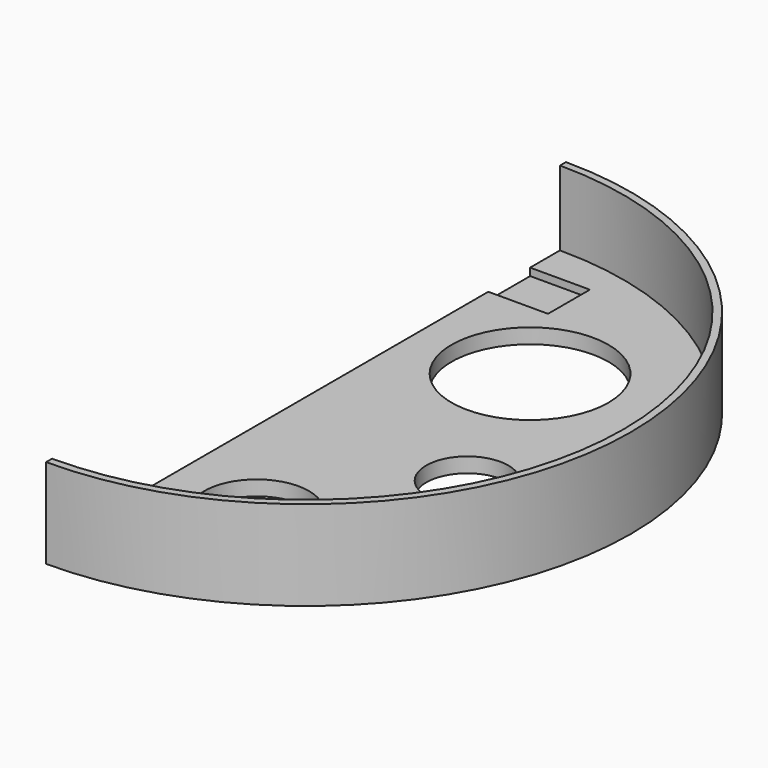
from build123d import *

# Parameters (mm, degrees)
F1_DEPTH = 12
F2_R     = 42.5
F3_DEPTH = 10
F4_R     = 10.5
F4_R_2   = 5.5
F4_R_3   = 7
F5_DEPTH = 2.001
F6_W     = 7
F6_H     = 1
F7_DEPTH = 8


with BuildPart() as f1:
    # F0 (on Top) → F1 (new body)
    with BuildSketch(Plane.XY):
        with BuildLine():
            Line((0, 43.5), (0, -43.5))
            ThreePointArc((0, -43.5), (43.5, 0), (0, 43.5))
        make_face()
    extrude(amount=F1_DEPTH)

    # F2 (on face) → F3 (cut)
    with BuildSketch(Plane.XY.offset(12)):
        Circle(F2_R)
    extrude(amount=-F3_DEPTH, mode=Mode.SUBTRACT)

    # F4 (on face) → F5 (cut, through all)
    with BuildSketch(Plane.XY.offset(2)):
        with Locations((-15, 18.734994)):
            Circle(F4_R)
        with Locations((-25, -4.265006)):
            Circle(F4_R_2)
        with Locations((-12, -23.265006)):
            Circle(F4_R_3)
        with Locations((15, 18.734994)):
            Circle(F4_R)
        with Locations((25, -4.265006)):
            Circle(F4_R_2)
        with Locations((12, -23.265006)):
            Circle(F4_R_3)
    extrude(amount=-F5_DEPTH, mode=Mode.SUBTRACT)

    # F6 (on face) → F7 (cut)
    with BuildSketch(Plane(origin=(0, 0, 0), x_dir=(0, -1, 0), z_dir=(-1, 0, 0))):
        with Locations((-34, 1.5)):
            Rectangle(F6_W, F6_H)
        with Locations((35.5, 1.5)):
            Rectangle(F6_W, F6_H)
    extrude(amount=-F7_DEPTH, mode=Mode.SUBTRACT)


solid = f1.part
